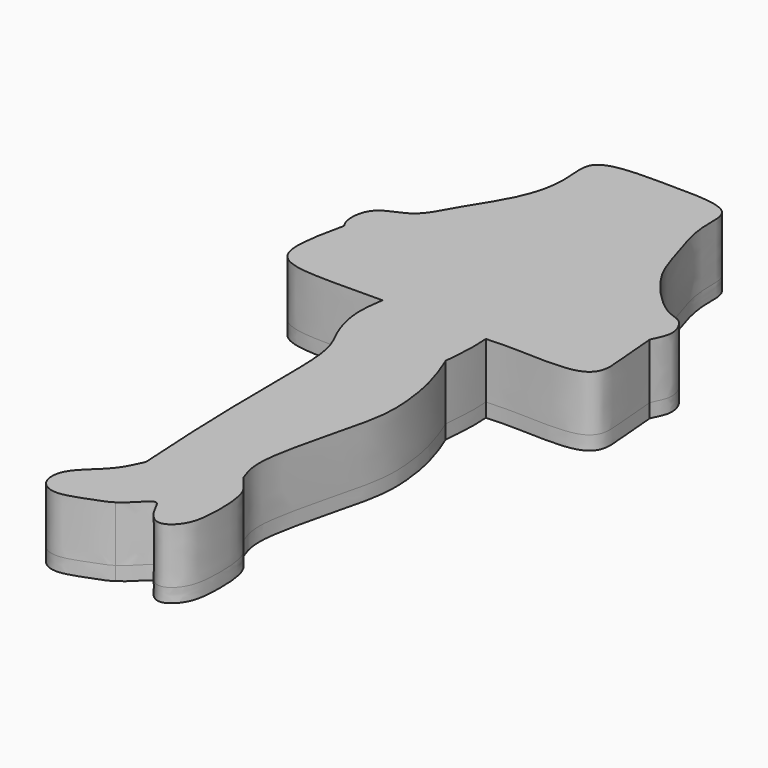
from build123d import *

# Parameters (mm, degrees)
F1_DEPTH = 2
F2_DEPTH = 8


with BuildPart() as f1:
    # F0 (on Top) → F1 (new body)
    with BuildSketch(Plane.XY):
        with BuildLine():
            add(Edge.make_bspline(
                [(-21.9601780476, 21.7273614056), (-22.5199328615, 22.490663816), (-22.8456270193, 24.5884257388), (-21.6166726877, 27.5398413538), (-17.1747143365, 28.4677989271), (-14.9086959262, 33.4554656469), (-10.6577097465, 39.4840333457), (-9.1961307993, 45.8916089998), (-10.8361490488, 52.4552705068), (0.2232041929, 52.2593901581), (10.4157267707, 52.3850236525), (9.2450210849, 46.1669349643), (11.6299415442, 39.5436010539), (13.0851221853, 34.0543793518), (19.209683744, 27.7096388178), (22.1448986555, 27.5942078049), (23.6814016564, 24.1027385786), (22.4872232824, 22.4191366718), (22.1778707599, 21.5519788814)],
                knots=[0, 0, 0, 0, 0.0465472219, 0.0928172635, 0.1475815165, 0.2102937078, 0.2853198308, 0.3562935064, 0.4159476282, 0.5008719116, 0.583031145, 0.6417713387, 0.7143586213, 0.7820444618, 0.8606825053, 0.9056348937, 0.9536692573, 1, 1, 1, 1], degree=3))
            add(Edge.make_bspline(
                [(-21.9601780476, 21.7273614056), (-22.7297995382, 18.2640710276), (-23.9638521537, 12.4917953087), (-20.1472419364, 10.3476683816), (-14.692231287, 10.2119675219), (-12.3944232373, 10.1869736897), (-7.2706906924, 10.2753935483)],
                knots=[0, 0, 0, 0, 0.3047275496, 0.491428731, 0.7069571942, 1, 1, 1, 1], degree=3))
            add(Edge.make_bspline(
                [(-7.2706906924, 10.2753935483), (-7.4882917023, 8.8017825217), (-7.9314727969, 5.8004540876), (-6.5208093591, 0.8812316713), (-4.2877474895, -2.5749330874), (-4.2994475526, -12.4908491812), (-4.152330147, -25.3867576598), (-3.6803941314, -33.2923422088), (-3.4451060505, -37.1082534838)],
                knots=[0, 0, 0, 0, 0.129099918, 0.2628776933, 0.3832445972, 0.5700080199, 0.7920710507, 1, 1, 1, 1], degree=3))
            add(Edge.make_bspline(
                [(-3.4451060505, -37.1082534838), (-4.0251125209, -38.3974121871), (-5.2186202808, -41.0224004778), (-9.6892113938, -44.1714074678), (-9.6709720081, -48.1180873248), (-6.8008756979, -49.7554081483), (-2.7442286402, -48.0774899854), (-0.9625679986, -47.5629493594), (0.04326082, -46.8969242376)],
                knots=[0, 0, 0, 0, 0.1785380984, 0.3752941412, 0.529767267, 0.6713838947, 0.8461986209, 1, 1, 1, 1], degree=3))
            add(Edge.make_bspline(
                [(0.04326082, -46.8969242376), (1.8025020322, -45.7255514797), (3.569085296, -42.7503355339), (4.6180839434, -46.1296125804), (6.8521786337, -48.4475965412), (9.6690648797, -46.2256513915), (10.399927397, -42.2879169372), (10.118723971, -35.8582112631), (8.6443252402, -34.6829616335), (7.5118020622, -33.2729919302)],
                knots=[0, 0, 0, 0, 0.1588473198, 0.2710524306, 0.3966641884, 0.5196094386, 0.6724809821, 0.8539045667, 1, 1, 1, 1], degree=3))
            add(Edge.make_bspline(
                [(7.5118020622, -33.2729919302), (7.0538841714, -32.0820390191), (5.7794684713, -28.7662302531), (9.9379851403, -14.5742957717), (10.5341664441, -8.9025272277), (9.5631302418, -2.0080416865), (8.1555412513, 1.5213635483), (7.4767898768, 3.2232701778)],
                knots=[0, 0, 0, 0, 0.1591293282, 0.4430901342, 0.6301698167, 0.8216678215, 1, 1, 1, 1], degree=3))
            add(Edge.make_bspline(
                [(7.6874815859, 10.1813748479), (7.9287551343, 7.7429227531), (7.6123792678, 4.6243621036), (7.4767898768, 3.2232701778)],
                knots=[0, 0, 0, 0, 6.9612938162, 6.9612938162, 6.9612938162, 6.9612938162], degree=3))
            add(Edge.make_bspline(
                [(22.1778707599, 21.5519788814), (22.3183004908, 19.5451088885), (22.5988055277, 16.0362430796), (23.0644958653, 12.5677166472), (21.0290706988, 9.866763464), (12.347267691, 10.3187386701), (10.1854266967, 10.3050081671), (7.6874815859, 10.1813748479)],
                knots=[0, 0, 0, 0, 0.2180600518, 0.3828462538, 0.5335312684, 0.7882713104, 1, 1, 1, 1], degree=3))
        make_face()
    extrude(amount=F1_DEPTH)

    # F2 (add): a face of the model
    f2_faces = [f1.faces().sort_by_distance(p)[0] for p in [
        (0.631541677, 10.4713930495, 2),
    ]]
    extrude(f2_faces, amount=F2_DEPTH)


solid = f1.part
